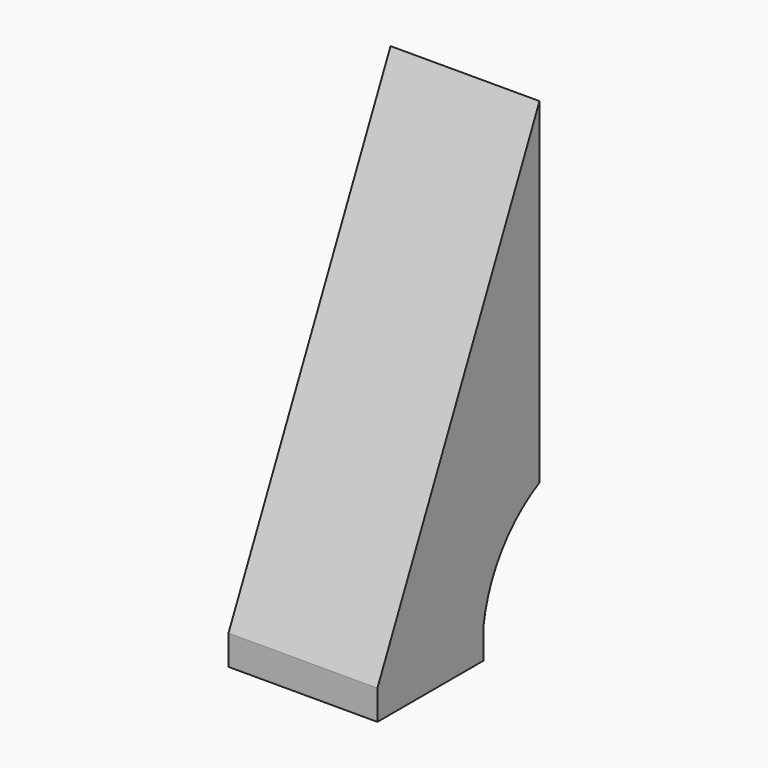
from build123d import *

# Parameters (mm, degrees)
F1_DEPTH      = 12.5
F4_DEPTH      = 12.5
F4_DEPTH_BACK = 12.5
F6_DEPTH      = 78.7353324739
F7_W          = 25
F7_H          = 22.2357761898
F8_DEPTH      = 5


with BuildPart() as f1:
    # F0 (on Right) → F1 (new body, symmetric)
    with BuildSketch(Plane.YZ):
        Polygon((-34, 0), (0, 0), (0, 72.9132352973), align=None)
    extrude(amount=F1_DEPTH, both=True)

    # F3 (on Right) → F4 (cut, two sides)
    with BuildSketch(Plane.YZ) as f4_sk:
        with BuildLine():
            ThreePointArc((0, 16.5421399337), (-7.9228514216, 9.7223765395), (-11.7642238102, 0))
            Line((-11.7642238102, 0), (0, 0))
            Line((0, 0), (0, 16.5421399337))
        make_face()
    extrude(amount=-F4_DEPTH, mode=Mode.SUBTRACT)
    extrude(f4_sk.sketch, amount=F4_DEPTH_BACK, mode=Mode.SUBTRACT)

    # F5 (on face) → F6 (cut, up to face)
    with BuildSketch(Plane(origin=(0, 27.9273893647, 59.8904797643), x_dir=(1, 0, 0), z_dir=(0, 0.4226182617, 0.906307787))):
        with BuildLine():
            Line((-8, 3.5331053375), (-8, -16.9910104243))
            ThreePointArc((-8, -16.9910104243), (0, -24.9910104243), (8, -16.9910104243))
            Line((8, -16.9910104243), (8, 3.5331053375))
            Line((8, 3.5331053375), (-8, 3.5331053375))
        make_face()
    extrude(amount=-F6_DEPTH, mode=Mode.SUBTRACT)

    # F7 (on face) → F8 (join)
    with BuildSketch(Plane(origin=(0, 0, 0), x_dir=(1, 0, 0), z_dir=(0, 0, -1))):
        with Locations((0, 22.8821119051)):
            Rectangle(F7_W, F7_H)
    extrude(amount=F8_DEPTH)


solid = f1.part
